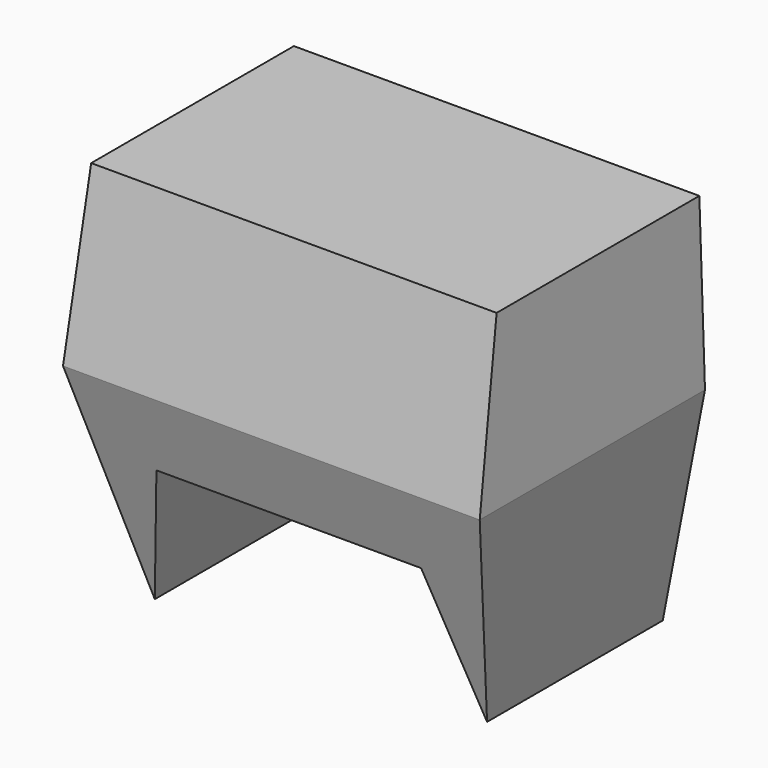
from build123d import *

# Parameters (mm, degrees)
F2_DEPTH      = 55
F3_DEPTH      = 74.001
F3_DEPTH_BACK = 74.001
F4_DEPTH      = 45


with BuildPart() as f2:
    # F0 (on Front) → F2 (new body, through all)
    with BuildSketch(Plane.XZ):
        Polygon((-72, 137), (-74, 77), (0, 77), (74, 77), (72, 137), (0, 137), align=None)
        Polygon((-74, 77), (-59, 0), (-47, 50), (0, 50), (47, 50), (59, 0), (74, 77), (0, 77), align=None)
    extrude(amount=F2_DEPTH)

    # F1 (on Right) → F3 (cut, two sides)
    with BuildSketch(Plane.YZ) as f3_sk:
        Polygon((-55, 77), (-45, 137), (-80.7239860296, 137), (-80.7239860296, 0), (-33, 0), align=None)
    extrude(amount=-F3_DEPTH, mode=Mode.SUBTRACT)
    extrude(f3_sk.sketch, amount=F3_DEPTH_BACK, mode=Mode.SUBTRACT)

    # F4 (add): a face of the model
    f4_faces = [f2.faces().sort_by_distance(p)[0] for p in [
        (0, 0, 88.8782570615),
    ]]
    extrude(f4_faces, amount=F4_DEPTH)


solid = f2.part
